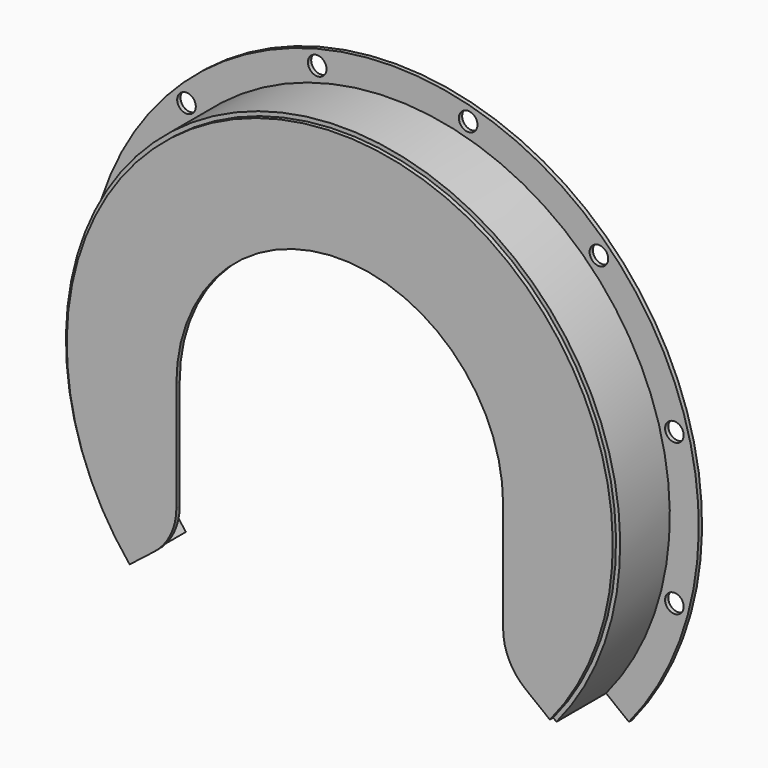
from build123d import *

# Parameters (mm, degrees)
F0_R     = 14.2875
F1_DEPTH = 6.35
F2_DEPTH = 101.6
F3_START = 101.6
F3_DEPTH = 6.35


with BuildPart() as f1:
    # F0 (on Front) → F1 (new body)
    with BuildSketch(Plane.XZ):
        with BuildLine():
            ThreePointArc((362.6078360523, -298.8671397686), (442.2643056821, -158.7711999058), (469.9, 0))
            ThreePointArc((469.9, 0), (-158.7711999058, 442.2643056821), (-362.6078360523, -298.8671397686))
            Line((-362.6078360523, -298.8671397686), (-327.5793708622, -271.4764414927))
            ThreePointArc((-327.5793708622, -271.4764414927), (-144.2897417814, 400.2351470282), (425.45, 0))
            ThreePointArc((425.45, 0), (400.2351470282, -144.2897417814), (327.5793708622, -271.4764414927))
            Line((327.5793708622, -271.4764414927), (362.6078360523, -298.8671397686))
        make_face()
        with Locations((-432.420844284, -115.8668160163)):
            Circle(F0_R, mode=Mode.SUBTRACT)
        with Locations((432.420844284, -115.8668160163)):
            Circle(F0_R, mode=Mode.SUBTRACT)
        with Locations((-432.420844284, 115.8668160163)):
            Circle(F0_R, mode=Mode.SUBTRACT)
        with Locations((-316.5540282677, 316.5540282677)):
            Circle(F0_R, mode=Mode.SUBTRACT)
        with Locations((-115.8668160163, 432.420844284)):
            Circle(F0_R, mode=Mode.SUBTRACT)
        with Locations((432.420844284, 115.8668160163)):
            Circle(F0_R, mode=Mode.SUBTRACT)
        with Locations((115.8668160163, 432.420844284)):
            Circle(F0_R, mode=Mode.SUBTRACT)
        with Locations((316.5540282677, 316.5540282677)):
            Circle(F0_R, mode=Mode.SUBTRACT)
    extrude(amount=F1_DEPTH)


with BuildPart() as f2:
    # F0 (on Front) → F2 (new body)
    with BuildSketch(Plane.XZ):
        with BuildLine():
            ThreePointArc((425.45, 0), (-144.2897417814, 400.2351470282), (-327.5793708622, -271.4764414927))
            Line((-327.5793708622, -271.4764414927), (-322.5750831737, -267.5633116021))
            ThreePointArc((-322.5750831737, -267.5633116021), (-142.2209419212, 394.2309141595), (419.1, 0))
            ThreePointArc((419.1, 0), (394.2309141595, -142.2209419212), (322.5750831737, -267.5633116021))
            Line((322.5750831737, -267.5633116021), (327.5793708622, -271.4764414927))
            ThreePointArc((327.5793708622, -271.4764414927), (400.2351470282, -144.2897417814), (425.45, 0))
        make_face()
    extrude(amount=F2_DEPTH)


with BuildPart() as f3:
    # F0 (on Front) → F3 (new body)
    with BuildSketch(Plane.XZ.offset(F3_START)):
        with BuildLine():
            ThreePointArc((419.1, 0), (-142.2209419212, 394.2309141595), (-322.5750831737, -267.5633116021))
            Line((-322.5750831737, -267.5633116021), (-284.9635723432, -238.1527867826))
            ThreePointArc((-284.9635723432, -238.1527867826), (-259.814109257, -207.0759765801), (-250.825, -168.1213935294))
            Line((-250.825, -168.1213935294), (-250.825, 0))
            ThreePointArc((-250.825, 0), (0, 250.825), (250.825, 0))
            Line((250.825, 0), (250.825, -168.1213935294))
            ThreePointArc((250.825, -168.1213935294), (259.814109257, -207.0759765801), (284.9635723432, -238.1527867826))
            Line((284.9635723432, -238.1527867826), (322.5750831737, -267.5633116021))
            ThreePointArc((322.5750831737, -267.5633116021), (394.2309141595, -142.2209419212), (419.1, 0))
        make_face()
    extrude(amount=F3_DEPTH)


solid = Compound([f1.part, f2.part, f3.part])
